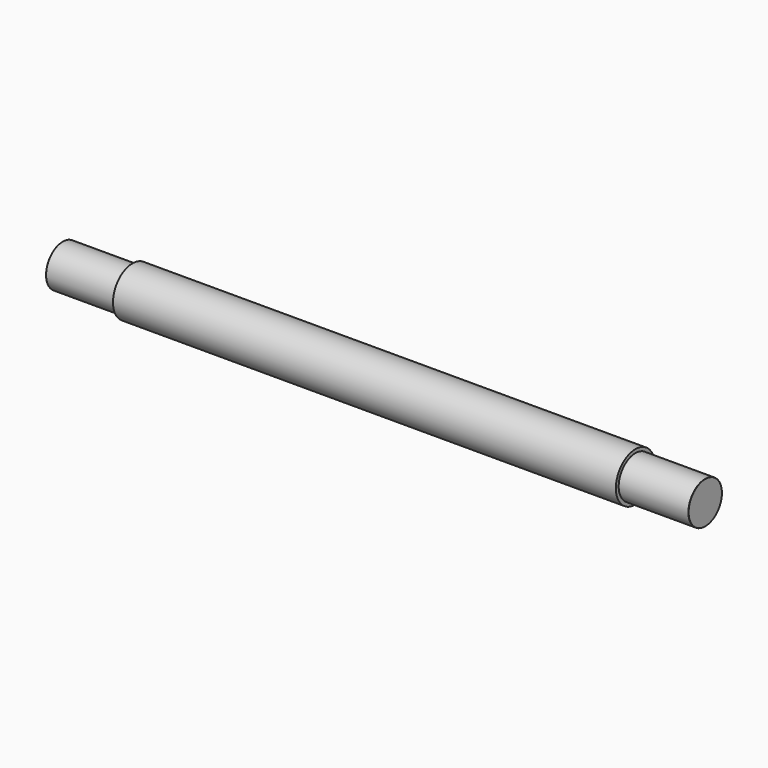
from build123d import *

# Parameters (mm, degrees)
F0_R     = 38.1
F1_DEPTH = 584.2
F2_R     = 0.41275
F3_R     = 44.45
F4_DEPTH = 457.2


with BuildPart() as f1:
    # F0 (on Right) → F1 (new body, symmetric)
    with BuildSketch(Plane.YZ):
        Circle(F0_R)
    extrude(amount=F1_DEPTH, both=True)

    # F2
    f2_edges = [f1.edges().sort_by_distance(p)[0] for p in [
        (-584.2, -38.1, 0),
        (584.2, -38.1, 0),
    ]]
    fillet(f2_edges, radius=F2_R)


with BuildPart() as f4:
    # F3 (on Right) → F4 (new body, symmetric)
    with BuildSketch(Plane.YZ):
        Circle(F3_R)
    extrude(amount=F4_DEPTH, both=True)


solid = Compound([f1.part, f4.part])
